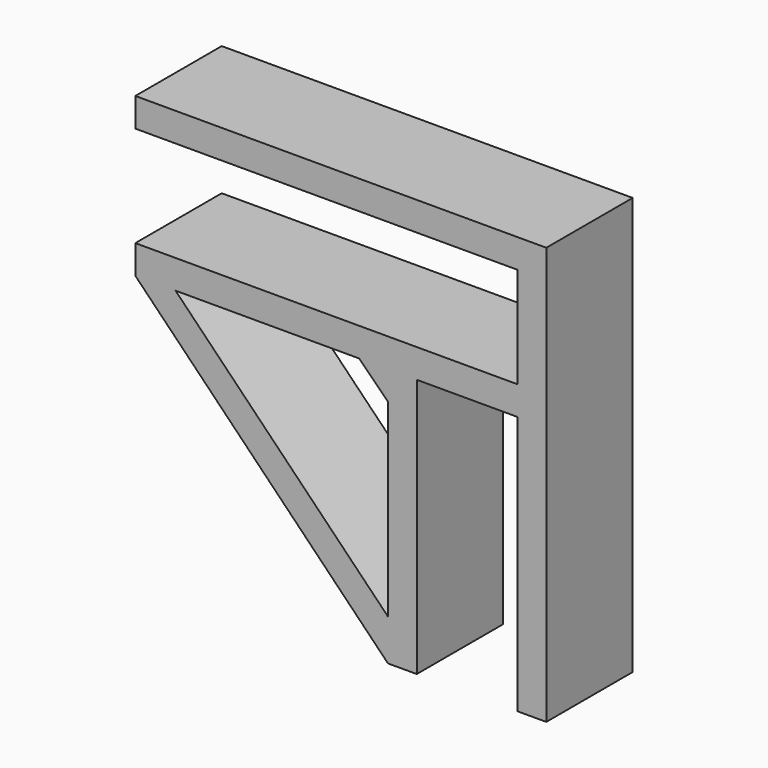
from build123d import *

# Parameters (mm, degrees)
F1_DEPTH = 7.5
F3_DEPTH = 15.001


with BuildPart() as f1:
    # F0 (on Front) → F1 (new body, symmetric)
    with BuildSketch(Plane.XZ):
        Polygon((-42.039316762, 14), (-42.039316762, 0), (-95.1409214032, 0), (-95.1409214032, -4), (-60.039316762, -40), (-56.039316762, -40), (-56.039316762, -4), (-42.039316762, -4), (-42.039316762, -40), (-38.039316762, -40), (-38.039316762, 18), (-42.039316762, 18), (-95.1409214032, 18), (-95.1409214032, 14), align=None)
    extrude(amount=F1_DEPTH, both=True)

    # F2 (on face) + F1_face1 (on face) → F3 (cut, through all)
    with BuildSketch(Plane.XZ.offset(7.5)):
        Polygon((-60.039316762, -8), (-64.039316762, -4), (-89.5542058456, -4), (-60.039316762, -34.2702972663), align=None)
    with BuildSketch(Plane(origin=(-64.2952492788, 7.5, -8.9733337312), x_dir=(1, 0, 0), z_dir=(0, 1, 0))):
        Polygon((22.2559325167, -8.9733337312), (22.2559325167, -22.9733337312), (-30.8456721244, -22.9733337312), (-30.8456721244, -26.9733337312), (26.2559325167, -26.9733337312), (26.2559325167, 31.0266662688), (22.2559325167, 31.0266662688), (22.2559325167, -4.9733337312), (8.2559325167, -4.9733337312), (8.2559325167, 31.0266662688), (4.2559325167, 31.0266662688), (-30.8456721244, -4.9733337312), (-30.8456721244, -8.9733337312), align=None)
    extrude(amount=-F3_DEPTH, dir=(0, -1, 0), mode=Mode.SUBTRACT)


solid = f1.part
